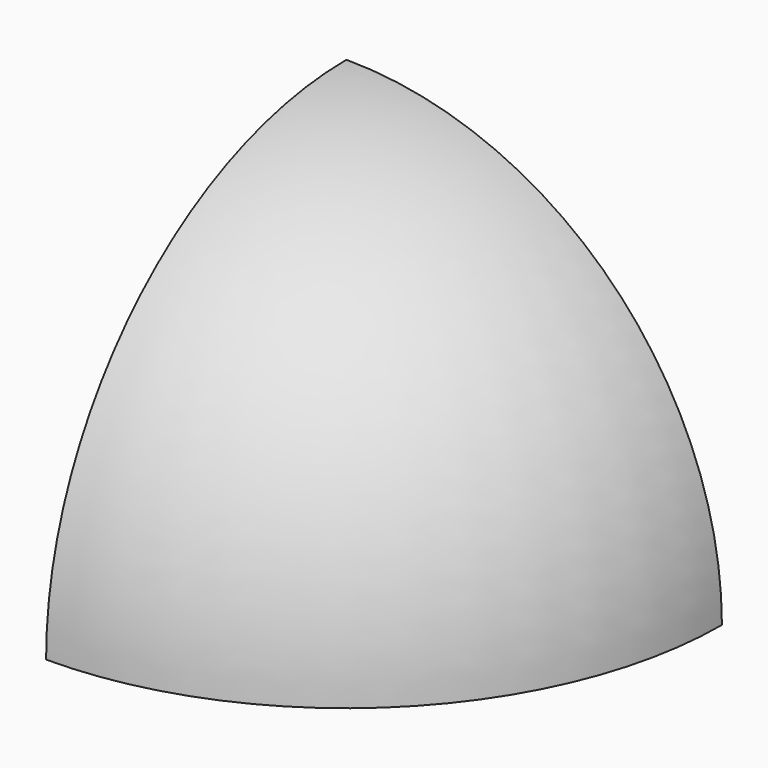
from build123d import *

# Parameters (mm, degrees)
F2_ANGLE = 90


with BuildPart() as f2:
    # F0 (on Front) → F2 (revolve)
    with BuildSketch(Plane.XZ):
        with BuildLine():
            Line((0, 5080), (0, 2540))
            ThreePointArc((0, 2540), (1796.051224, 1796.051224), (2540, 0))
            Line((2540, 0), (5080, 0))
            ThreePointArc((5080, 0), (3592.102448, 3592.102448), (0, 5080))
        make_face()
    revolve(axis=Axis((0, 0, 2945.849419), (0, 0, -1)), revolution_arc=F2_ANGLE)


solid = f2.part
